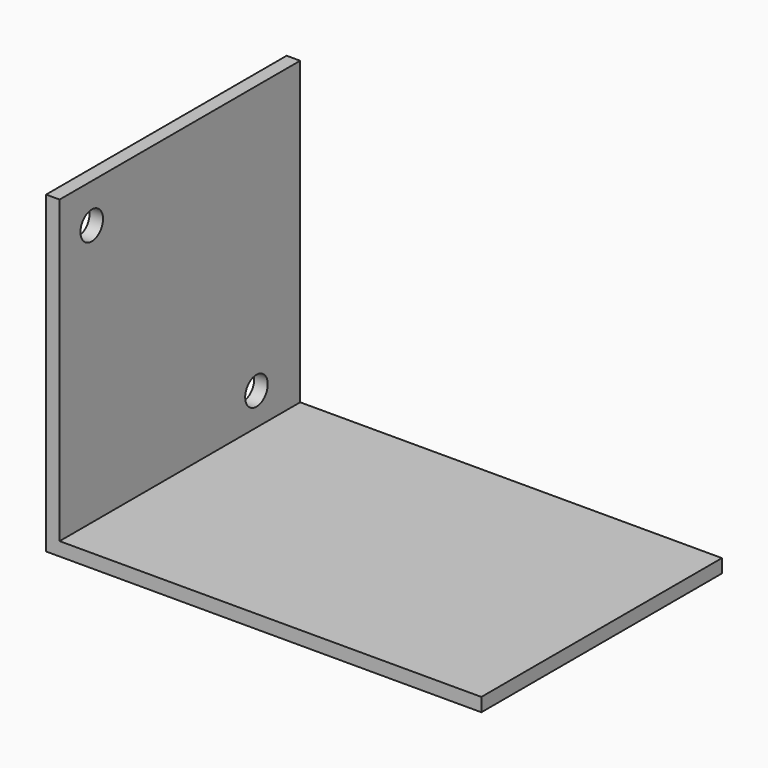
from build123d import *

# Parameters (mm, degrees)
F0_W     = 57.90056
F0_H     = 40
F1_DEPTH = 1.8
F2_W     = 1.8
F2_H     = 40
F3_DEPTH = 40
F4_R     = 1.875
F5_DEPTH = 9.2


with BuildPart() as f1:
    # F0 (on Top) → F1 (new body)
    with BuildSketch(Plane.XY):
        Rectangle(F0_W, F0_H)
    extrude(amount=F1_DEPTH)

    # F2 (on face) → F3 (join)
    with BuildSketch(Plane.XY.offset(1.8)):
        with Locations((-28.05028, 0)):
            Rectangle(F2_W, F2_H)
    extrude(amount=F3_DEPTH)

    # F4 (on face) → F5 (cut)
    with BuildSketch(Plane(origin=(-28.95028, 0, 0), x_dir=(0, -1, 0), z_dir=(-1, 0, 0))):
        with Locations((14.657458, 36.595527)):
            Circle(F4_R)
        with Locations((-12.731545, 6.108502)):
            Circle(F4_R)
    extrude(amount=-F5_DEPTH, mode=Mode.SUBTRACT)


solid = f1.part
